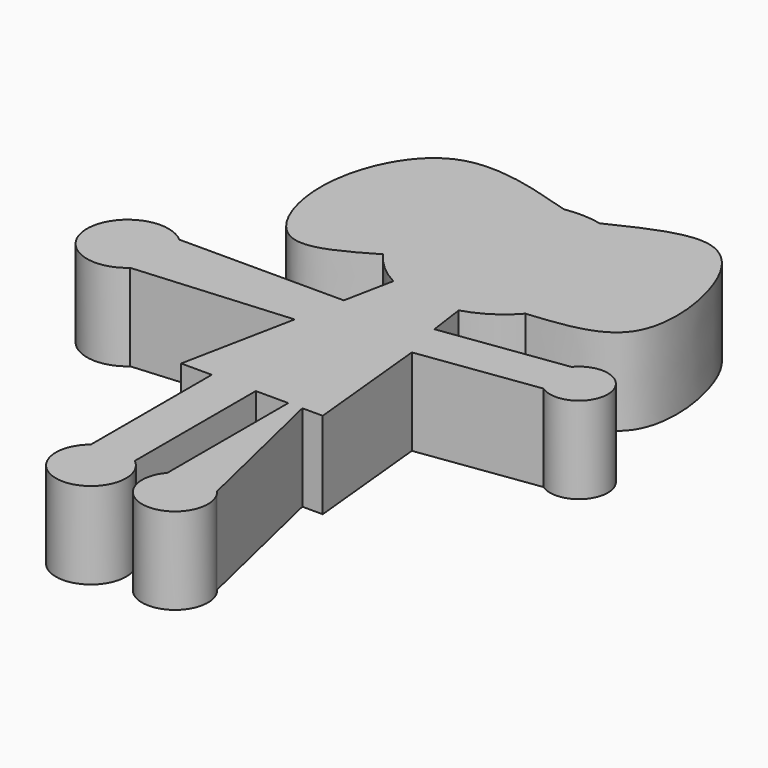
from build123d import *

# Parameters (mm, degrees)
F1_DEPTH = 13.208


with BuildPart() as f1:
    # F0 (on Top) → F1 (new body)
    with BuildSketch(Plane.XY):
        with BuildLine():
            Line((1.6875251908, 13.8993691253), (0.9119332828, 19.5008654738))
            ThreePointArc((0.9119332828, 19.5008654738), (4.5790904611, 21.1751601363), (7.6420988616, 23.7960920174))
            add(Edge.make_bspline(
                [(0, 47.4856790349), (4.8663180095, 49.8468566526), (13.957722279, 54.2574336959), (21.6605679154, 44.1167468225), (23.598309448, 25.3317741071), (12.832483909, 24.3037927034), (7.6420988616, 23.7960920174)],
                knots=[0, 0, 0, 0, 0.2563550842, 0.4788327498, 0.7483097421, 1, 1, 1, 1], degree=3))
            ThreePointArc((0, 47.4856790349), (-2.7770979593, 47.8389643368), (-5.5702551362, 47.6509309211))
            add(Edge.make_bspline(
                [(-5.5702551362, 47.6509309211), (-12.4340249149, 49.7584273446), (-25.8328997846, 53.8827746922), (-34.3049869471, 34.7192616157), (-27.5113878855, 17.9509081707), (-19.1389333786, 22.83026337), (-15.1260971142, 25.1679574208)],
                knots=[0, 0, 0, 0, 0.2780647075, 0.5427326624, 0.7807289836, 1, 1, 1, 1], degree=3))
            ThreePointArc((-15.1260971142, 25.1679574208), (-12.777947587, 22.5202014188), (-9.857362456, 20.5215517395))
            Line((-9.857362456, 20.5215517395), (-11.3675416112, 12.9706561565))
            Line((-11.3675416112, 12.9706561565), (-36.4344269037, 12.9706561565))
            Line((-36.4344269037, 12.9706561565), (-36.4344269037, 3.6434426438))
            Line((-36.4344269037, 3.6434426438), (-12.8632402586, 5.4921631107))
            Line((-12.8632402586, 5.4921631107), (-16.3226239383, -11.8047548458))
            Line((-16.3226239383, -11.8047548458), (-11.6590159014, -11.8047548458))
            Line((-11.6590159014, -11.8047548458), (-11.6590159014, -34.8313115537))
            Line((-11.6590159014, -34.8313115537), (-4.9550817348, -34.8313115537))
            Line((-4.9550817348, -34.8313115537), (-4.9550817348, -11.8047548458))
            Line((-4.9550817348, -11.8047548458), (0, -11.8047548458))
            Line((0, -11.8047548458), (0, -34.8313115537))
            Line((0, -34.8313115537), (7.5783608481, -34.8313115537))
            Line((7.5783608481, -34.8313115537), (2.135720041, -11.8047548458))
            Line((2.135720041, -11.8047548458), (5.2465582266, -11.8047548458))
            Line((5.2465582266, -11.8047548458), (3.3173785202, 7.5690866787))
            Line((3.3173785202, 7.5690866787), (21.3789032867, 10.0699135264))
            Line((21.3789032867, 10.0699135264), (20.4882312308, 16.5025441632))
            Line((20.4882312308, 16.5025441632), (1.6875251908, 13.8993691253))
        make_face()
        with BuildLine():
            ThreePointArc((21.3789032867, 10.0699135264), (28.2268271678, 14.2960649701), (20.4882312308, 16.5025441632))
            Line((20.4882312308, 16.5025441632), (21.3789032867, 10.0699135264))
        make_face()
        with BuildLine():
            Line((-36.4344269037, 3.6434426438), (-36.4344269037, 12.9706561565))
            ThreePointArc((-36.4344269037, 12.9706561565), (-46.7587517531, 8.3070494002), (-36.4344269037, 3.6434426438))
        make_face()
        with BuildLine():
            ThreePointArc((0, -34.8313115537), (3.7891804241, -43.1300495917), (7.5783608481, -34.8313115537))
            Line((7.5783608481, -34.8313115537), (0, -34.8313115537))
        make_face()
        with BuildLine():
            ThreePointArc((-11.6590159014, -34.8313115537), (-8.3070488181, -44.3347399297), (-4.9550817348, -34.8313115537))
            Line((-4.9550817348, -34.8313115537), (-11.6590159014, -34.8313115537))
        make_face()
    extrude(amount=F1_DEPTH)


solid = f1.part
